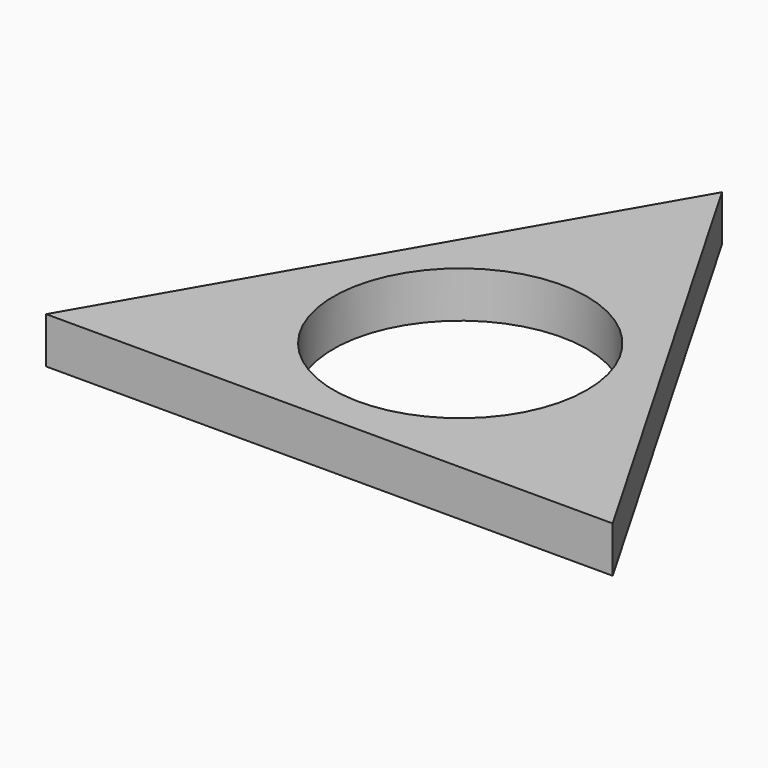
from build123d import *

# Parameters (mm, degrees)
F0_R     = 11
F1_DEPTH = 4


with BuildPart() as f1:
    # F0 (on Top) → F1 (new body)
    with BuildSketch(Plane.XY):
        Polygon((-24.595121, -14.2), (24.595121, -14.2), (0, 28.4), align=None)
        Circle(F0_R, mode=Mode.SUBTRACT)
    extrude(amount=F1_DEPTH)


solid = f1.part
